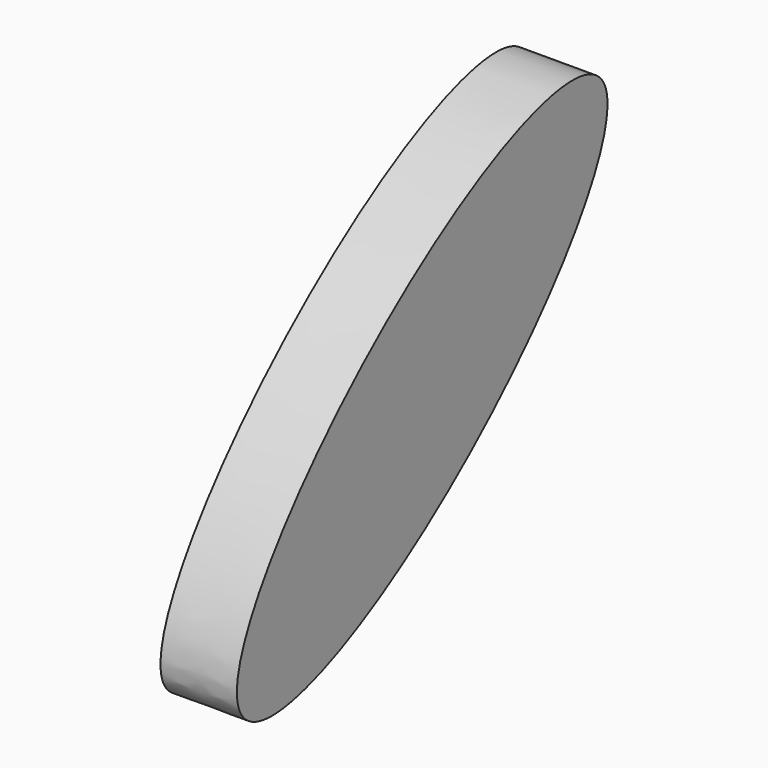
from build123d import *

# Parameters (mm, degrees)
F1_DEPTH = 25.4


with BuildPart() as f1:
    # F0 (on Right) → F1 (new body)
    with BuildSketch(Plane.YZ):
        with BuildLine():
            add(Edge.make_bspline(
                [(22.942357, 36.250021), (-12.218087, 77.517049), (-106.07814, -38.066108), (-199.938193, -153.649265), (-70.917696, -79.333136), (58.102801, -5.017006), (22.942357, 36.250021)],
                knots=[0, 0, 0, 2.094395, 2.094395, 4.18879, 4.18879, 6.283185, 6.283185, 6.283185], degree=2, weights=[1, 0.5, 1, 0.5, 1, 0.5, 1]))
        make_face()
    extrude(amount=F1_DEPTH)


solid = f1.part
